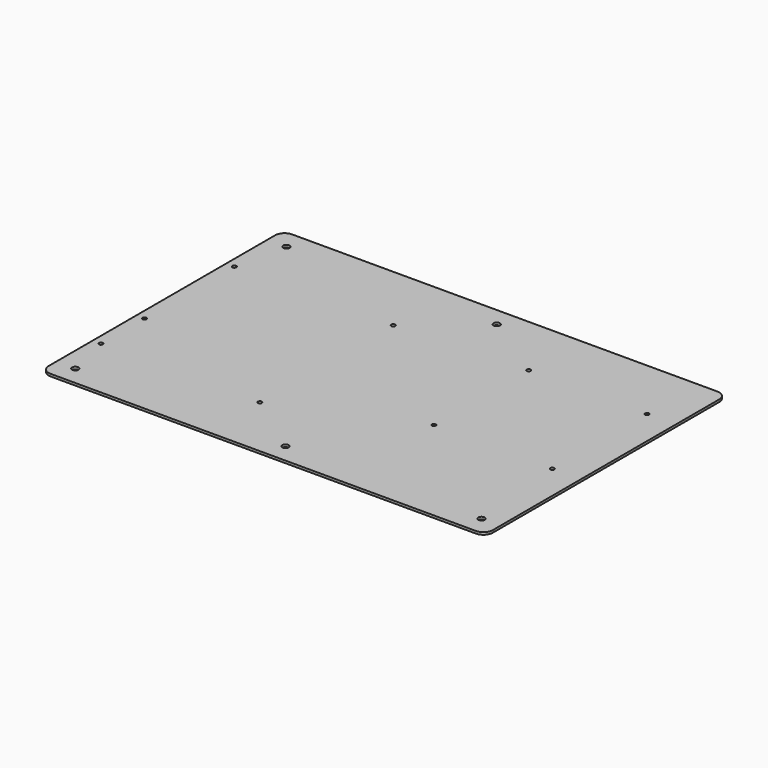
from build123d import *

# Parameters (mm, degrees)
F0_W     = 281
F0_H     = 191
F0_W_2   = 105
F0_H_2   = 110
F0_H_3   = 150
F0_R     = 1.25
F1_DEPTH = 1.5
F2_DEPTH = 25
F3_D     = 2.5
F4_D     = 4.1
F5_R     = 6


with BuildPart() as f1:
    # F0 (on Top) → F1 (new body)
    with BuildSketch(Plane.XY):
        with Locations((10.5, 2.505872022)):
            Rectangle(F0_W, F0_H)
        with Locations((-74.5, 0.505872022)):
            Rectangle(F0_W_2, F0_H_2, mode=Mode.SUBTRACT)
        with Locations((95.5, 20.005872022)):
            Rectangle(F0_W_2, F0_H_3, mode=Mode.SUBTRACT)
        with Locations((-74.5, 0.505872022)):
            Rectangle(F0_W_2, F0_H_2)
        with Locations((-124.75, -52.244127978)):
            Circle(F0_R, mode=Mode.SUBTRACT)
        with Locations((-24.25, -52.244127978)):
            Circle(F0_R, mode=Mode.SUBTRACT)
        with Locations((-124.75, -17.75)):
            Circle(F0_R, mode=Mode.SUBTRACT)
        with Locations((-124.75, 53.255872022)):
            Circle(F0_R, mode=Mode.SUBTRACT)
        with Locations((-24.25, 53.255872022)):
            Circle(F0_R, mode=Mode.SUBTRACT)
        with Locations((95.5, 20.005872022)):
            Rectangle(F0_W_2, F0_H_3)
        with Locations((-24.25, 53.255872022)):
            Circle(F0_R)
        with Locations((-124.75, 53.255872022)):
            Circle(F0_R)
        with Locations((-124.75, -52.244127978)):
            Circle(F0_R)
        with Locations((-24.25, -52.244127978)):
            Circle(F0_R)
        with Locations((-124.75, -17.75)):
            Circle(F0_R)
    extrude(amount=F1_DEPTH)

    # F0 (on Top) → F2 (cut)
    with BuildSketch(Plane.XY):
        with Locations((-124.75, 53.255872022)):
            Circle(F0_R)
        with Locations((-24.25, 53.255872022)):
            Circle(F0_R)
        with Locations((-24.25, -52.244127978)):
            Circle(F0_R)
        with Locations((-124.75, -52.244127978)):
            Circle(F0_R)
    extrude(amount=F2_DEPTH, mode=Mode.SUBTRACT)

    # F3 (through all)
    with Locations(Plane(origin=(0, 0, 0), x_dir=(1, 0, 0), z_dir=(0, 0, -1))):
        with Locations((133, -57.505872022), (58, -57.505872022), (58, 17.494127978), (133, 17.494127978), (-124.75, 17.75)):
            Hole(F3_D / 2)

    # F4 (through all)
    with Locations(Plane(origin=(0, 0, 0), x_dir=(1, 0, 0), z_dir=(0, 0, -1))):
        with Locations((-118, -86.005872022), (15, -86.005872022), (139, 80.994127978), (-118, 80.994127978), (15, 80.994127978)):
            Hole(F4_D / 2)

    # F5
    f5_edges = [f1.edges().sort_by_distance(p)[0] for p in [
        (-130, 98.005872, 0.75),
        (-130, -92.994128, 0.75),
        (151, -92.994128, 0.75),
        (151, 98.005872, 0.75),
    ]]
    fillet(f5_edges, radius=F5_R)


with BuildPart() as f1_1:
    # F6: moved
    add(f1.part.moved(Location((0, 0, 10))))


with BuildPart() as f1_2:
    # F7: moved
    add(f1_1.part.moved(Location((2, 0, 0))))


solid = f1_2.part
